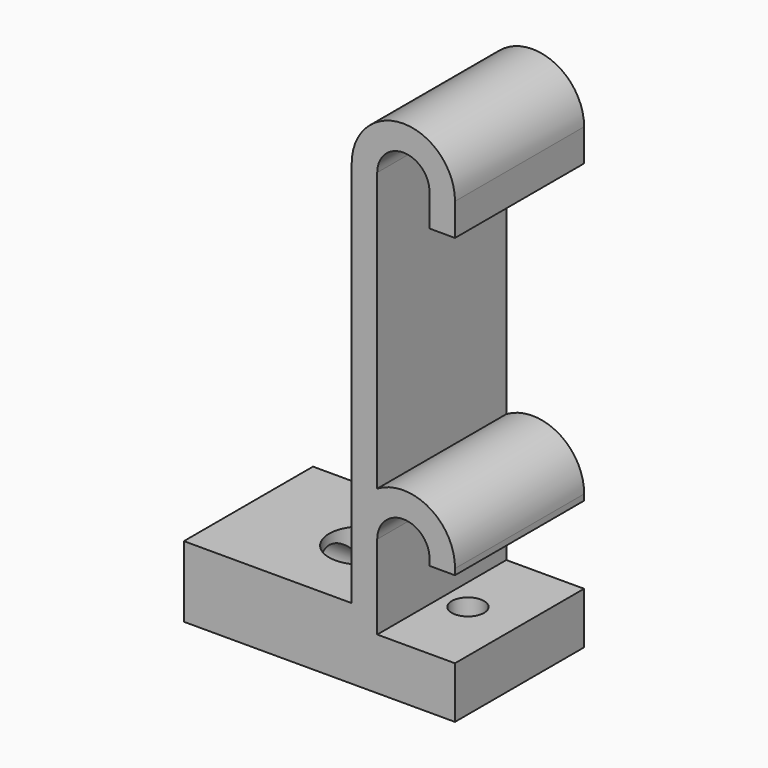
from build123d import *

# Parameters (mm, degrees)
F1_DEPTH = 25
F2_R     = 5
F3_DEPTH = 25
F4_R     = 2.5
F5_DEPTH = 15
F6_R     = 3.95
F7_DEPTH = 17


with BuildPart() as f1:
    # F0 (on Front) → F1 (new body)
    with BuildSketch(Plane.XZ):
        with BuildLine():
            ThreePointArc((-4.05, 0), (0, 4.05), (4.05, 0))
            Line((4.05, 0), (4.05, -5))
            Line((4.05, -5), (8, -5))
            Line((8, -5), (8, 0))
            ThreePointArc((8, 0), (0, 8), (-8, 0))
            Line((-8, 0), (-8, -50))
            Line((-8, -50), (-8, -60))
            Line((-8, -60), (-34, -60))
            Line((-34, -60), (-34, -71))
            Line((-34, -71), (-4.05, -71))
            Line((-4.05, -71), (7.991412, -71))
            Line((7.991412, -71), (7.991412, -63))
            Line((7.991412, -63), (-4.05, -63))
            Line((-4.05, -63), (-4.05, -50))
            ThreePointArc((-4.05, -50), (0, -45.95), (4.05, -50))
            Line((4.05, -50), (4.05, -51))
            Line((4.05, -51), (7.991412, -51))
            Line((7.991412, -51), (7.999683, -50.071239))
            ThreePointArc((7.999683, -50.071239), (4.005794, -43.075145), (-4.05, -43.100906))
            Line((-4.05, -43.100906), (-4.05, 0))
        make_face()
        with BuildLine():
            ThreePointArc((-4.05, 0), (0, 4.05), (4.05, 0))
            Line((4.05, 0), (4.05, -5))
            Line((4.05, -5), (8, -5))
            Line((8, -5), (8, 0))
            ThreePointArc((8, 0), (0, 8), (-8, 0))
            Line((-8, 0), (-8, -50))
            Line((-8, -50), (-8, -60))
            Line((-8, -60), (-34, -60))
            Line((-34, -60), (-34, -71))
            Line((-34, -71), (-4.05, -71))
            Line((-4.05, -71), (7.991412, -71))
            Line((7.991412, -71), (7.991412, -63))
            Line((7.991412, -63), (-4.05, -63))
            Line((-4.05, -63), (-4.05, -50))
            ThreePointArc((-4.05, -50), (0, -45.95), (4.05, -50))
            Line((4.05, -50), (4.05, -51))
            Line((4.05, -51), (7.991412, -51))
            Line((7.991412, -51), (7.999683, -50.071239))
            ThreePointArc((7.999683, -50.071239), (4.005794, -43.075145), (-4.05, -43.100906))
            Line((-4.05, -43.100906), (-4.05, 0))
        make_face()
    extrude(amount=F1_DEPTH)

    # F2 (on face) → F3 (cut)
    with BuildSketch(Plane.XY.offset(-60)):
        with Locations((-16.5, -12.5)):
            Circle(F2_R)
    extrude(amount=-F3_DEPTH, mode=Mode.SUBTRACT)

    # F4 (on face) → F5 (cut)
    with BuildSketch(Plane(origin=(0, 0, -71), x_dir=(1, 0, 0), z_dir=(0, 0, -1))):
        with Locations((0, 12.5)):
            Circle(F4_R)
    extrude(amount=-F5_DEPTH, mode=Mode.SUBTRACT)

    # F6 (on face) → F7 (cut)
    with BuildSketch(Plane(origin=(-34, 0, 0), x_dir=(0, -1, 0), z_dir=(-1, 0, 0))):
        with Locations((12.5, -65.5)):
            Circle(F6_R)
    extrude(amount=-F7_DEPTH, mode=Mode.SUBTRACT)


solid = f1.part
